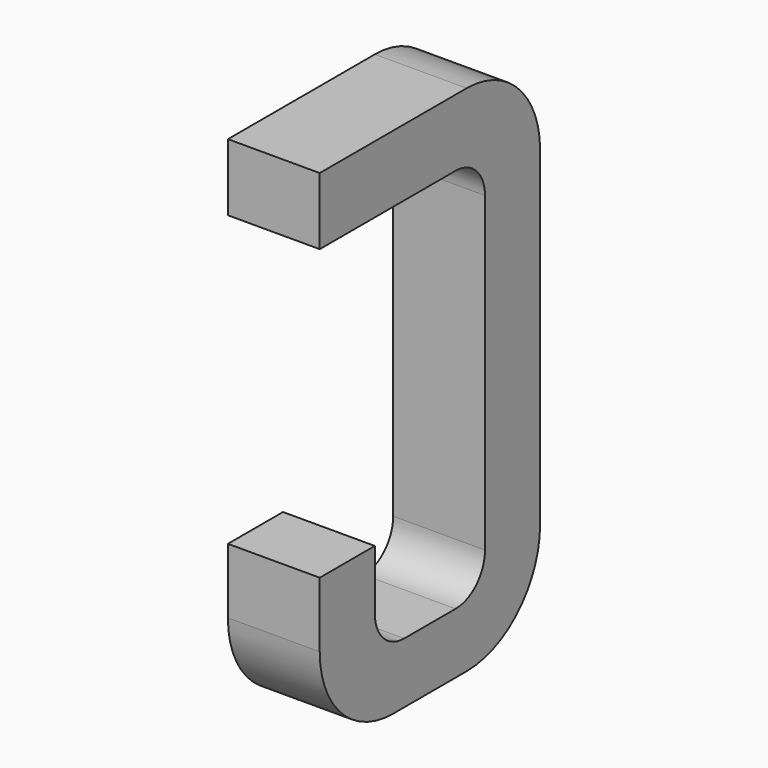
from build123d import *

# Parameters (mm, degrees)
BOX093_W     = 0.5
BOX093_H     = 1.5
BOX093_DEPTH = 2.795
FILLET182_R  = 0.5
FILLET202_R  = 0.5
FILLET181_R  = 0.5
BOX091_W     = 0.75
BOX091_H     = 2.1
BOX091_DEPTH = 1
FILLET152_R  = 0.2
FILLET190_R  = 0.2
FILLET151_R  = 0.2
FILLET187_R  = 0.2
BOX097_W     = 1
BOX097_H     = 1.575
BOX097_DEPTH = 3


with BuildPart() as part:
    # Box093 → Box093 (join)
    with BuildSketch(Plane(origin=(-0.25, 11.125, 0), x_dir=(1, 0, 0), z_dir=(0, 0, 1))):
        with Locations((0.25, 0.75)):
            Rectangle(BOX093_W, BOX093_H)
    extrude(amount=BOX093_DEPTH)

    # Fillet182
    fillet182_edges = [part.edges().sort_by_distance(p)[0] for p in [
        (0, 12.625, 0),
    ]]
    fillet(fillet182_edges, radius=FILLET182_R)

    # Fillet202
    fillet202_edges = [part.edges().sort_by_distance(p)[0] for p in [
        (0, 12.625, 2.795),
    ]]
    fillet(fillet202_edges, radius=FILLET202_R)

    # Fillet181
    fillet181_edges = [part.edges().sort_by_distance(p)[0] for p in [
        (0, 11.125, 0),
    ]]
    fillet(fillet181_edges, radius=FILLET181_R)

    # Box091 → Box091 (cut)
    with BuildSketch(Plane(origin=(-0.5, 11.5, 0.33), x_dir=(0, 1, 0), z_dir=(1, 0, 0))):
        with Locations((0.375, 1.05)):
            Rectangle(BOX091_W, BOX091_H)
    extrude(amount=BOX091_DEPTH, mode=Mode.SUBTRACT)

    # Fillet152
    fillet152_edges = [part.edges().sort_by_distance(p)[0] for p in [
        (0, 11.5, 0.33),
    ]]
    fillet(fillet152_edges, radius=FILLET152_R)

    # Fillet190
    fillet190_edges = [part.edges().sort_by_distance(p)[0] for p in [
        (0, 12.25, 0.33),
    ]]
    fillet(fillet190_edges, radius=FILLET190_R)

    # Fillet151
    fillet151_edges = [part.edges().sort_by_distance(p)[0] for p in [
        (0, 11.5, 2.43),
    ]]
    fillet(fillet151_edges, radius=FILLET151_R)

    # Fillet187
    fillet187_edges = [part.edges().sort_by_distance(p)[0] for p in [
        (0, 12.25, 2.43),
    ]]
    fillet(fillet187_edges, radius=FILLET187_R)

    # Box097 → Box097 (cut)
    with BuildSketch(Plane(origin=(-1, 11, 0.855), x_dir=(0, 1, 0), z_dir=(1, 0, 0))):
        with Locations((0.5, 0.7875)):
            Rectangle(BOX097_W, BOX097_H)
    extrude(amount=BOX097_DEPTH, mode=Mode.SUBTRACT)


with BuildPart() as part_1:
    # Body028 placement: moved
    add(part.part.moved(Location((-5.08, 0, 0))))


solid = part_1.part
